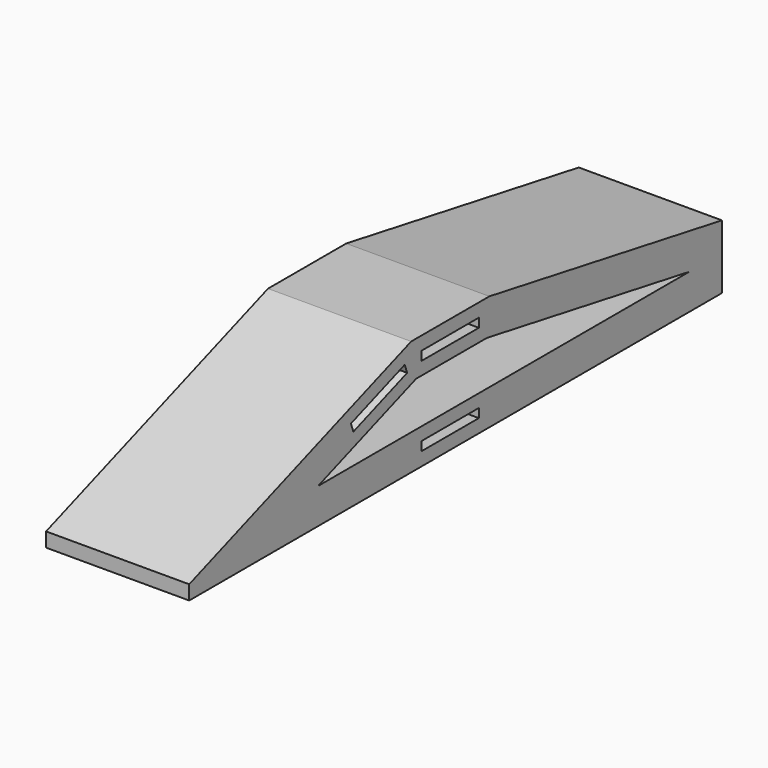
from build123d import *

# Parameters (mm, degrees)
F0_W     = 16
F0_H     = 2
F1_DEPTH = 16


with BuildPart() as f1:
    # F0 (on Right) → F1 (new body, symmetric)
    with BuildSketch(Plane.YZ):
        Polygon((10.927957, 0), (-10.927957, 0), (-72.94767, -22.573329), (-72.94767, -25.77426), (75.925268, -25.77426), (75.925268, -11.46078), align=None)
        with Locations((0, -21.77426)):
            Rectangle(F0_W, F0_H, mode=Mode.SUBTRACT)
        Polygon((-27.756056, -9.317461), (-12.720974, -3.845138), (-12.378954, -4.784831), (-12.036934, -5.724524), (-27.072016, -11.196846), align=None, mode=Mode.SUBTRACT)
        with Locations((0, -4)):
            Rectangle(F0_W, F0_H, mode=Mode.SUBTRACT)
        Polygon((-36.939022, -17.874259), (-9.534973, -7.900001), (10.236796, -7.900001), (66.803625, -17.874259), align=None, mode=Mode.SUBTRACT)
    extrude(amount=F1_DEPTH, both=True)


solid = f1.part
